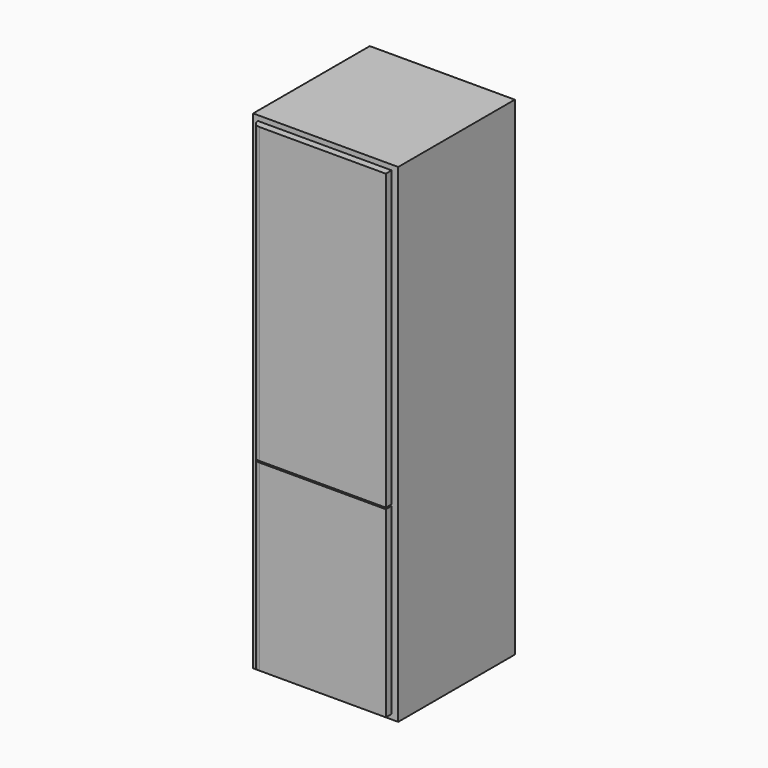
from build123d import *

# Parameters (mm, degrees)
SKETCH191_W  = 597
SKETCH191_H  = 600
PAD011_DEPTH = 2011
SKETCH192_W  = 550
SKETCH192_H  = 1210
PAD012_DEPTH = 30
FILLET010_R  = 29
SKETCH193_W  = 550
SKETCH193_H  = 754
PAD013_DEPTH = 30
FILLET001_R  = 29


with BuildPart() as part:
    # Sketch191 → Pad011 (new body)
    with BuildSketch(Plane.XY):
        with Locations((298.5, 300)):
            Rectangle(SKETCH191_W, SKETCH191_H)
    extrude(amount=PAD011_DEPTH)

    # Sketch192 (on Face1 of Pad011) → Pad012 (join)
    with BuildSketch(Plane.XZ):
        with Locations((295, 1385)):
            Rectangle(SKETCH192_W, SKETCH192_H)
    extrude(amount=PAD012_DEPTH)

    # Fillet010
    fillet010_edges = [part.edges().sort_by_distance(p)[0] for p in [
        (20, -30, 1385),
    ]]
    fillet(fillet010_edges, radius=FILLET010_R)

    # Sketch193 (on Face4 of Fillet010) → Pad013 (join)
    with BuildSketch(Plane.XZ):
        with Locations((295, 397)):
            Rectangle(SKETCH193_W, SKETCH193_H)
    extrude(amount=PAD013_DEPTH)

    # Fillet001
    fillet001_edges = [part.edges().sort_by_distance(p)[0] for p in [
        (20, -30, 397),
    ]]
    fillet(fillet001_edges, radius=FILLET001_R)


with BuildPart() as part_1:
    # Body009 placement: moved
    add(part.part.moved(Location((5320, 1850, 0))))


solid = part_1.part
